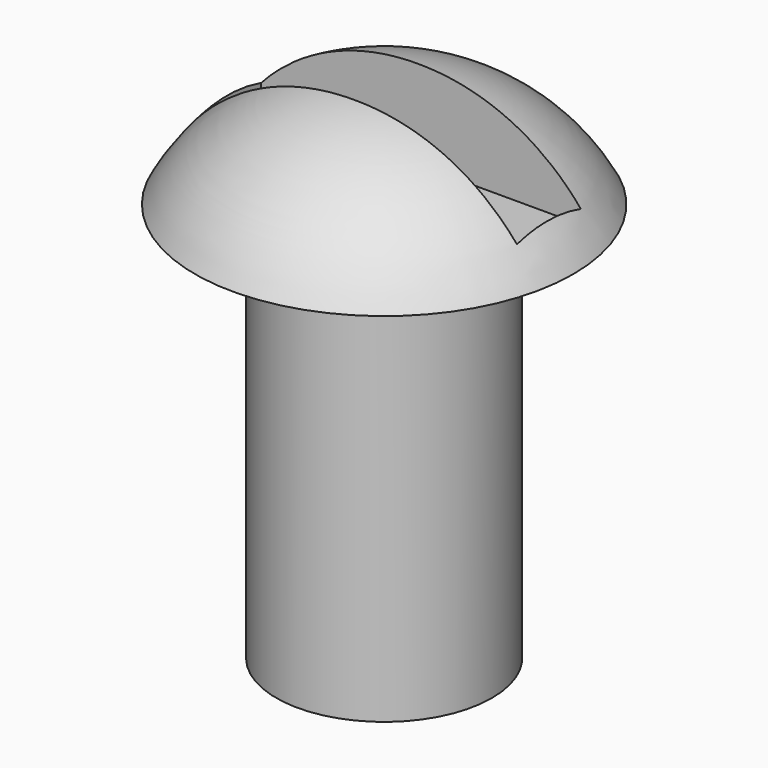
from build123d import *

# Parameters (mm, degrees)
F3_W     = 10.16
F3_H     = 2.54
F4_DEPTH = 25.4


with BuildPart() as f1:
    # F0 (on Front) → F1 (revolve)
    with BuildSketch(Plane.XZ):
        with BuildLine():
            Line((0, 9.272124), (0, -6.911947))
            Line((0, -6.911947), (3.427876, -6.911947))
            Line((3.427876, -6.911947), (3.427876, 5.788053))
            Line((3.427876, 5.788053), (6.012831, 5.788053))
            ThreePointArc((6.012831, 5.788053), (3.50097, 8.383594), (0, 9.272124))
        make_face()
    revolve(axis=Axis((0, 0, 1.180088), (0, 0, 1)))

    # F3 (on offset) → F4 (cut)
    with BuildSketch(Plane.XY.offset(6.35)):
        with Locations((0.097278, 0.073749)):
            Rectangle(F3_W, F3_H)
    extrude(amount=F4_DEPTH, mode=Mode.SUBTRACT)


solid = f1.part
